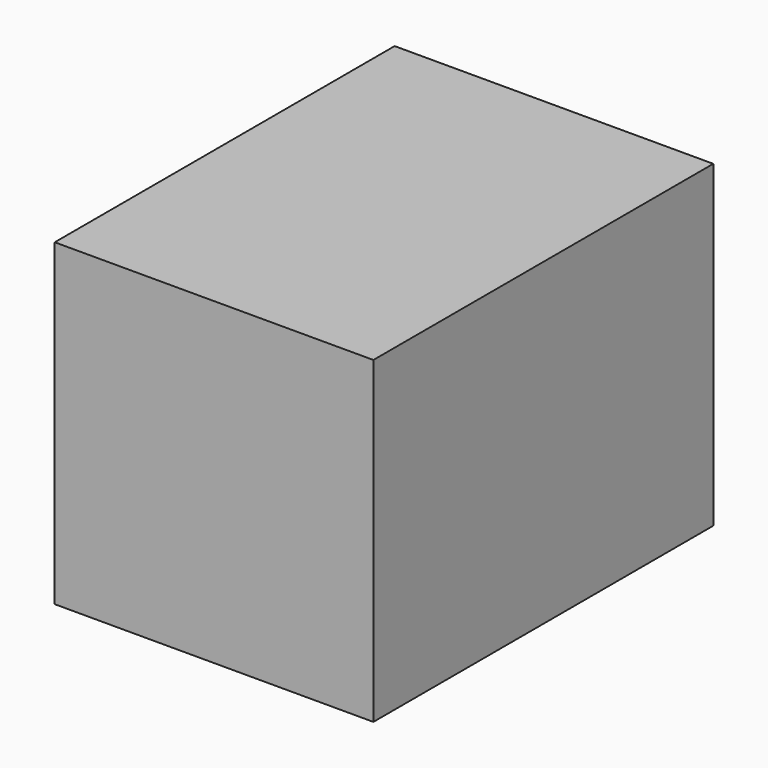
from build123d import *

# Parameters (mm, degrees)
F0_W      = 76.2
F0_H      = 76.2
F1_DEPTH  = 76.2
F2_W      = 76.2
F2_H      = 76.2
F2_W_2    = 25.4
F2_H_2    = 25.4
F3_DEPTH  = 12.7
F3_FACE_W = 76.2
F3_FACE_H = 76.2
F4_DEPTH  = 12.7


with BuildPart() as f1:
    # F0 (on Front) → F1 (new body)
    with BuildSketch(Plane.XZ):
        with Locations((-7.8149551065, 60.3069368094)):
            Rectangle(F0_W, F0_H)
    extrude(amount=F1_DEPTH)

    # F2 (on face) → F3 (join)
    with BuildSketch(Plane.XZ.offset(76.2)):
        with Locations((-7.8149551065, 60.3069368094)):
            Rectangle(F2_W, F2_H)
        with Locations((-16.3421141915, 65.2924486793)):
            Rectangle(F2_W_2, F2_H_2, mode=Mode.SUBTRACT)
        with Locations((-16.3421141915, 65.2924486793)):
            Rectangle(F2_W_2, F2_H_2)
    extrude(amount=F3_DEPTH)

    # F2 (on face) + F3_face (on face) → F4 (join)
    with BuildSketch(Plane.XZ.offset(76.2)):
        with Locations((-16.3421141915, 65.2924486793)):
            Rectangle(F2_W_2, F2_H_2)
    with BuildSketch(Plane(origin=(-7.8149551065, -88.9, 60.3069368094), x_dir=(1, 0, 0), z_dir=(0, -1, 0))):
        Rectangle(F3_FACE_W, F3_FACE_H)
    extrude(amount=F4_DEPTH)


solid = f1.part
